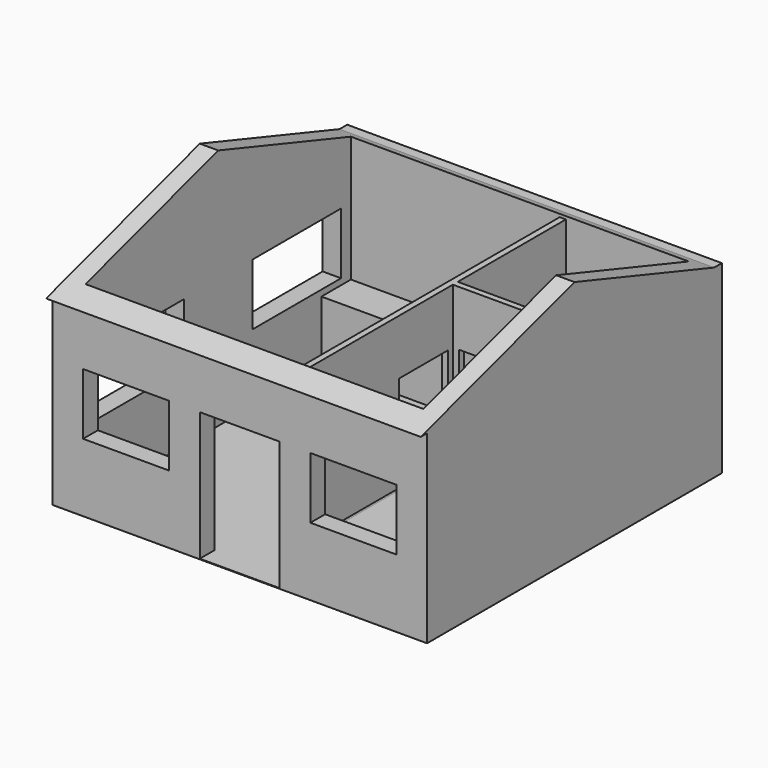
from build123d import *

# Parameters (mm, degrees)
F0_W      = 6100
F0_H      = 6000
F1_DEPTH  = 3000
F3_DEPTH  = 6100
F5_DEPTH  = 6100
F6_W      = 5500
F6_H      = 5400
F7_DEPTH  = 3947.755728
F8_W      = 1300
F8_H      = 2100
F8_W_2    = 1400
F8_H_2    = 1000
F9_DEPTH  = 1000
F10_W     = 1500
F10_H     = 2000
F11_DEPTH = 1000
F12_W     = 1000
F12_H     = 1000
F13_DEPTH = 200
F15_DEPTH = 3000
F16_W     = 1800
F16_H     = 1000
F17_DEPTH = 1000
F19_DEPTH = 500
F20_W     = 500
F20_H     = 200
F21_DEPTH = 1000
F23_DEPTH = 1000
F24_W     = 1000
F24_H     = 2100
F25_DEPTH = 500
F26_W     = 3400
F26_H     = 600
F27_DEPTH = 1000
F28_W     = 400
F28_H     = 300
F29_DEPTH = 300
F30_W     = 1000
F30_H     = 2100
F31_DEPTH = 500
F32_R     = 40
F33_R     = 100
F34_W     = 6100
F34_H     = 6000
F35_DEPTH = 10
F36_R     = 50
F37_DEPTH = 25
F38_W     = 1500
F38_H     = 600
F39_DEPTH = 500


with BuildPart() as f1:
    # F0 (on Top) → F1 (new body)
    with BuildSketch(Plane.XY):
        with Locations((3050, -3000)):
            Rectangle(F0_W, F0_H)
    extrude(amount=F1_DEPTH)

    # F2 (on face) → F3 (join)
    with BuildSketch(Plane(origin=(0, 0, 0), x_dir=(0, -1, 0), z_dir=(-1, 0, 0))):
        Polygon((3000, 4000), (0, 3000), (6300, 3000), align=None)
    extrude(amount=-F3_DEPTH)

    # F4 (on face) → F5 (cut)
    with BuildSketch(Plane.YZ.offset(6100)):
        Polygon((-3000, 4000), (-6300, 3000), (-6127.590604, 3000), (-3000, 3947.754728), (-156.735815, 3000), (0, 3000), align=None)
    extrude(amount=-F5_DEPTH, mode=Mode.SUBTRACT)

    # F6 (on face) → F7 (cut, through all)
    with BuildSketch(Plane(origin=(0, 0, 0), x_dir=(1, 0, 0), z_dir=(0, 0, -1))):
        with Locations((3050, 3000)):
            Rectangle(F6_W, F6_H)
    extrude(amount=-F7_DEPTH, mode=Mode.SUBTRACT)

    # F8 (on face) → F9 (cut)
    with BuildSketch(Plane.XZ.offset(6000)):
        with Locations((3050, 1050)):
            Rectangle(F8_W, F8_H)
        with Locations((4900, 1600)):
            Rectangle(F8_W_2, F8_H_2)
        with Locations((1200, 1600)):
            Rectangle(F8_W_2, F8_H_2)
    extrude(amount=-F9_DEPTH, mode=Mode.SUBTRACT)

    # F14 (on face) → F15 (join)
    with BuildSketch(Plane(origin=(0, 0, 0), x_dir=(1, 0, 0), z_dir=(0, 0, -1))):
        Polygon((3800, 5700), (3700, 5700), (3700, 300), (3800, 300), (3800, 2500), (5800, 2500), (5800, 2600), (3800, 2600), align=None)
    extrude(amount=-F15_DEPTH)

    # F16 (on face) → F17 (cut)
    with BuildSketch(Plane(origin=(0, 0, 0), x_dir=(0, -1, 0), z_dir=(-1, 0, 0))):
        with Locations((4600, 1600)):
            Rectangle(F16_W, F16_H)
        with Locations((1400, 1600)):
            Rectangle(F16_W, F16_H)
    extrude(amount=-F17_DEPTH, mode=Mode.SUBTRACT)

    # F24 (on face) → F25 (cut)
    with BuildSketch(Plane.YZ.offset(3800)):
        with Locations((-1900, 1050)):
            Rectangle(F24_W, F24_H)
        with Locations((-3200, 1050)):
            Rectangle(F24_W, F24_H)
    extrude(amount=-F25_DEPTH, mode=Mode.SUBTRACT)

    # F30 (on face) → F31 (cut)
    with BuildSketch(Plane.XZ.offset(2600)):
        with Locations((4400, 1050)):
            Rectangle(F30_W, F30_H)
    extrude(amount=-F31_DEPTH, mode=Mode.SUBTRACT)


with BuildPart() as f11:
    # F10 (on face) → F11 (new body)
    with BuildSketch(Plane(origin=(0, 0, 0), x_dir=(1, 0, 0), z_dir=(0, 0, -1))):
        with Locations((5050, 4700)):
            Rectangle(F10_W, F10_H)
    extrude(amount=-F11_DEPTH)

    # F33
    f33_edges = [f11.edges().sort_by_distance(p)[0] for p in [
        (5800, -4700, 1000),
        (5050, -5700, 1000),
        (4300, -4700, 1000),
        (5050, -3700, 1000),
    ]]
    fillet(f33_edges, radius=F33_R)


with BuildPart() as f13:
    # F12 (on face) → F13 (new body)
    with BuildSketch(Plane(origin=(0, 0, 0), x_dir=(1, 0, 0), z_dir=(0, 0, -1))):
        with Locations((5300, 800)):
            Rectangle(F12_W, F12_H)
    extrude(amount=-F13_DEPTH)


with BuildPart() as f19:
    # F18 (on face) → F19 (new body)
    with BuildSketch(Plane(origin=(0, 0, 0), x_dir=(1, 0, 0), z_dir=(0, 0, -1))):
        with BuildLine():
            add(Edge.make_bspline(
                [(4300, 500), (4646.410162, 500), (4473.205081, 950), (4300, 1400), (4126.794919, 950), (3953.589838, 500), (4300, 500)],
                knots=[0, 0, 0, 2.094395, 2.094395, 4.18879, 4.18879, 6.283185, 6.283185, 6.283185], degree=2, weights=[1, 0.5, 1, 0.5, 1, 0.5, 1]))
        make_face()
    extrude(amount=-F19_DEPTH)


with BuildPart() as f21:
    # F20 (on face) → F21 (new body)
    with BuildSketch(Plane(origin=(0, 0, 0), x_dir=(1, 0, 0), z_dir=(0, 0, -1))):
        with Locations((4300, 400)):
            Rectangle(F20_W, F20_H)
    extrude(amount=-F21_DEPTH)


with BuildPart() as f23:
    # F22 (on face) → F23 (new body)
    with BuildSketch(Plane(origin=(0, 0, 0), x_dir=(1, 0, 0), z_dir=(0, 0, -1))):
        with BuildLine():
            Line((5800, 2000), (5800, 2500))
            Line((5800, 2500), (5300, 2500))
            ThreePointArc((5300, 2500), (5446.446609, 2146.446609), (5800, 2000))
        make_face()
    extrude(amount=-F23_DEPTH)


with BuildPart() as f27:
    # F26 (on face) → F27 (new body)
    with BuildSketch(Plane(origin=(0, 0, 0), x_dir=(1, 0, 0), z_dir=(0, 0, -1))):
        with Locations((2000, 600)):
            Rectangle(F26_W, F26_H)
    extrude(amount=-F27_DEPTH)

    # F28 (on face) → F29 (cut)
    with BuildSketch(Plane.XY.offset(1000)):
        with Locations((1500, -650)):
            Rectangle(F28_W, F28_H)
    extrude(amount=-F29_DEPTH, mode=Mode.SUBTRACT)

    # F32
    f32_edges = [f27.edges().sort_by_distance(p)[0] for p in [
        (1700, -500, 850),
        (1300, -500, 850),
        (1300, -800, 850),
        (1500, -500, 700),
        (1700, -650, 700),
        (1300, -650, 700),
        (1500, -800, 700),
        (1700, -800, 850),
    ]]
    fillet(f32_edges, radius=F32_R)

    # F36 (on face) → F37 (join)
    with BuildSketch(Plane.XY.offset(1000)):
        with Locations((2900, -650)):
            Circle(F36_R)
        with Locations((3100, -650)):
            Circle(F36_R)
        with Locations((3100, -500)):
            Circle(F36_R)
        with Locations((2900, -500)):
            Circle(F36_R)
    extrude(amount=F37_DEPTH)


with BuildPart() as f35:
    # F34 (on face) → F35 (new body)
    with BuildSketch(Plane(origin=(0, 0, 0), x_dir=(1, 0, 0), z_dir=(0, 0, -1))):
        with Locations((3050, 3000)):
            Rectangle(F34_W, F34_H)
    extrude(amount=F35_DEPTH)


with BuildPart() as f39:
    # F38 (on face) → F39 (new body)
    with BuildSketch(Plane.XY):
        with Locations((1050, -5400)):
            Rectangle(F38_W, F38_H)
    extrude(amount=F39_DEPTH)


solid = Compound([f1.part, f11.part, f13.part, f19.part, f21.part, f23.part, f27.part, f35.part, f39.part])
